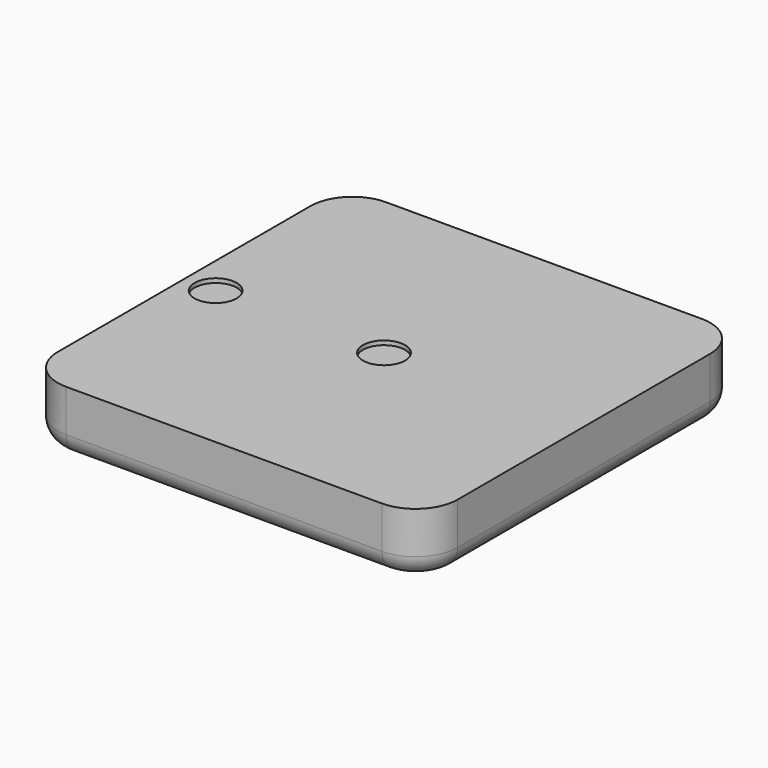
from build123d import *

# Parameters (mm, degrees)
F0_W     = 241.3
F0_H     = 241.3
F1_DEPTH = 38.1
F2_R     = 25.4
F3_R     = 12.7
F5_DEPTH = 19.05
F6_R     = 12.7
F7_DEPTH = 2.54
F8_R     = 12.7
F9_DEPTH = 2.54


with BuildPart() as f1:
    # F0 (on Top) → F1 (new body)
    with BuildSketch(Plane.XY):
        Rectangle(F0_W, F0_H)
    extrude(amount=-F1_DEPTH)

    # F2
    f2_edges = [f1.edges().sort_by_distance(p)[0] for p in [
        (-120.65, -120.65, -19.05),
        (-120.65, 120.65, -19.05),
        (120.65, 120.65, -19.05),
        (120.65, -120.65, -19.05),
    ]]
    fillet(f2_edges, radius=F2_R)

    # F3
    f3_edges = [f1.edges().sort_by_distance(p)[0] for p in [
        (0, -120.65, -38.1),
    ]]
    fillet(f3_edges, radius=F3_R)

    # F4 (on face) → F5 (cut)
    with BuildSketch(Plane(origin=(0, 0, -38.1), x_dir=(1, 0, 0), z_dir=(0, 0, -1))):
        with BuildLine():
            Line((-28.575, -20.163958), (-3.175, -34.828655))
            ThreePointArc((-3.175, -34.828655), (0, -35.679394), (3.175, -34.828655))
            Line((3.175, -34.828655), (28.575, -20.163958))
            ThreePointArc((28.575, -20.163958), (30.899261, -17.839697), (31.75, -14.664697))
            Line((31.75, -14.664697), (31.75, 14.664697))
            ThreePointArc((31.75, 14.664697), (30.899261, 17.839697), (28.575, 20.163958))
            Line((28.575, 20.163958), (3.175, 34.828655))
            ThreePointArc((3.175, 34.828655), (0, 35.679394), (-3.175, 34.828655))
            Line((-3.175, 34.828655), (-28.575, 20.163958))
            ThreePointArc((-28.575, 20.163958), (-30.899261, 17.839697), (-31.75, 14.664697))
            Line((-31.75, 14.664697), (-31.75, -14.664697))
            ThreePointArc((-31.75, -14.664697), (-30.899261, -17.839697), (-28.575, -20.163958))
        make_face()
    extrude(amount=-F5_DEPTH, mode=Mode.SUBTRACT)

    # F6 (on face) → F7 (cut)
    with BuildSketch(Plane.XY):
        with Locations((-101.6, 0)):
            Circle(F6_R)
    extrude(amount=-F7_DEPTH, mode=Mode.SUBTRACT)

    # F8 (on face) → F9 (cut)
    with BuildSketch(Plane.XY):
        Circle(F8_R)
    extrude(amount=-F9_DEPTH, mode=Mode.SUBTRACT)


solid = f1.part
